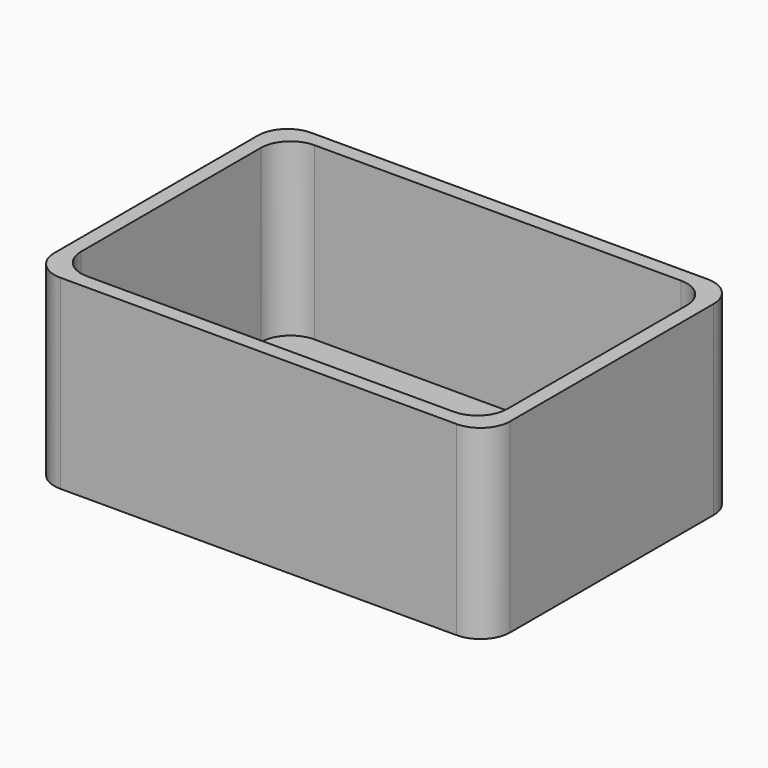
from build123d import *

# Parameters (mm, degrees)
F0_W     = 77.8612360591
F0_H     = 53.5927973688
F1_DEPTH = 31.75
F2_T     = -2.54
F3_R     = 5.08


with BuildPart() as f1:
    # F0 (on Top) → F1 (new body)
    with BuildSketch(Plane.XY):
        with Locations((40.8265881124, -26.7963986844)):
            Rectangle(F0_W, F0_H)
        with Locations((40.8265881124, -26.7963986844)):
            Rectangle(F0_W, F0_H)
    extrude(amount=F1_DEPTH)

    # F2
    f2_openings = [f1.faces().sort_by_distance(p)[0] for p in [
        (40.826588, -26.796399, 31.75),
    ]]
    offset(amount=F2_T, openings=f2_openings)

    # F3
    f3_edges = [f1.edges().sort_by_distance(p)[0] for p in [
        (1.89597, 0, 15.875),
        (79.757206, 0, 15.875),
        (79.757206, -53.592797, 15.875),
        (1.89597, -53.592797, 15.875),
        (4.43597, -51.052797, 17.145),
        (4.43597, -2.54, 17.145),
        (77.217206, -2.54, 17.145),
        (77.217206, -51.052797, 17.145),
    ]]
    fillet(f3_edges, radius=F3_R)


solid = f1.part
